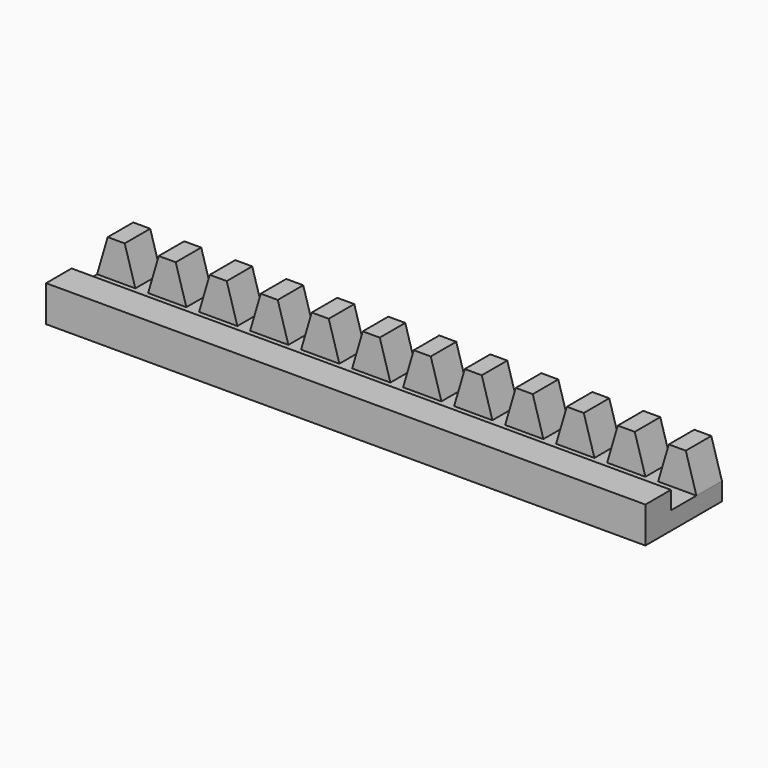
from build123d import *

# Parameters (mm, degrees)
F1_DEPTH = 3.81
F4_DEPTH = 71.628
F5_SCALE = 0.5


with BuildPart() as f1:
    # F0 (on Front) → F1 (new body)
    with BuildSketch(Plane.XZ):
        Polygon((-38.4448663006, 16.8945933835), (-38.4448663006, 14.7355933835), (33.1831336994, 14.7355933835), (33.1831336994, 16.8945933835), (28.6111336994, 16.8945933835), (27.0871336994, 16.8945933835), (22.5151336994, 16.8945933835), (20.9911336994, 16.8945933835), (16.4191336994, 16.8945933835), (14.8951336994, 16.8945933835), (10.3231336994, 16.8945933835), (8.7991336994, 16.8945933835), (4.2271336994, 16.8945933835), (2.7031336994, 16.8945933835), (-1.8688663006, 16.8945933835), (-3.3928663006, 16.8945933835), (-7.9648663006, 16.8945933835), (-9.4888663006, 16.8945933835), (-14.0608663006, 16.8945933835), (-15.5848663006, 16.8945933835), (-20.1568663006, 16.8945933835), (-21.6808663006, 16.8945933835), (-26.2528663006, 16.8945933835), (-27.7768663006, 16.8945933835), (-32.3488663006, 16.8945933835), (-33.8728663006, 16.8945933835), align=None)
        Polygon((-37.1748663006, 21.2125933835), (-38.4448663006, 16.8945933835), (-33.8728663006, 16.8945933835), (-35.1428663006, 21.2125933835), align=None)
        Polygon((28.6111336994, 16.8945933835), (33.1831336994, 16.8945933835), (31.9131336994, 21.2125933835), (29.8811336994, 21.2125933835), align=None)
        Polygon((-31.0788663006, 21.2125933835), (-32.3488663006, 16.8945933835), (-27.7768663006, 16.8945933835), (-29.0468663006, 21.2125933835), align=None)
        Polygon((22.5151336994, 16.8945933835), (27.0871336994, 16.8945933835), (25.8171336994, 21.2125933835), (23.7851336994, 21.2125933835), align=None)
        Polygon((-24.9828663006, 21.2125933835), (-26.2528663006, 16.8945933835), (-21.6808663006, 16.8945933835), (-22.9508663006, 21.2125933835), align=None)
        Polygon((16.4191336994, 16.8945933835), (20.9911336994, 16.8945933835), (19.7211336994, 21.2125933835), (17.6891336994, 21.2125933835), align=None)
        Polygon((-18.8868663006, 21.2125933835), (-20.1568663006, 16.8945933835), (-15.5848663006, 16.8945933835), (-16.8548663006, 21.2125933835), align=None)
        Polygon((10.3231336994, 16.8945933835), (14.8951336994, 16.8945933835), (13.6251336994, 21.2125933835), (11.5931336994, 21.2125933835), align=None)
        Polygon((-12.7908663006, 21.2125933835), (-14.0608663006, 16.8945933835), (-9.4888663006, 16.8945933835), (-10.7588663006, 21.2125933835), align=None)
        Polygon((4.2271336994, 16.8945933835), (8.7991336994, 16.8945933835), (7.5291336994, 21.2125933835), (5.4971336994, 21.2125933835), align=None)
        Polygon((-6.6948663006, 21.2125933835), (-7.9648663006, 16.8945933835), (-3.3928663006, 16.8945933835), (-4.6628663006, 21.2125933835), align=None)
        Polygon((-1.8688663006, 16.8945933835), (2.7031336994, 16.8945933835), (1.4331336994, 21.2125933835), (-0.5988663006, 21.2125933835), align=None)
    extrude(amount=F1_DEPTH)

    # F3 (on plane+point) → F4 (join, through all)
    with BuildSketch(Plane.YZ.offset(33.1831336994)):
        Polygon((-11.43, 14.7355933835), (-3.81, 14.7355933835), (-3.81, 16.8945933835), (-7.62, 16.8945933835), (-7.62, 19.0535933835), (-11.43, 19.0535933835), (-11.43, 16.8945933835), align=None)
    extrude(amount=-F4_DEPTH)


with BuildPart() as f1_1:
    # F5: moved
    add(f1.part.scale(F5_SCALE).moved(Location((16.5915668497, 0, 7.3677966917))))


solid = f1_1.part
